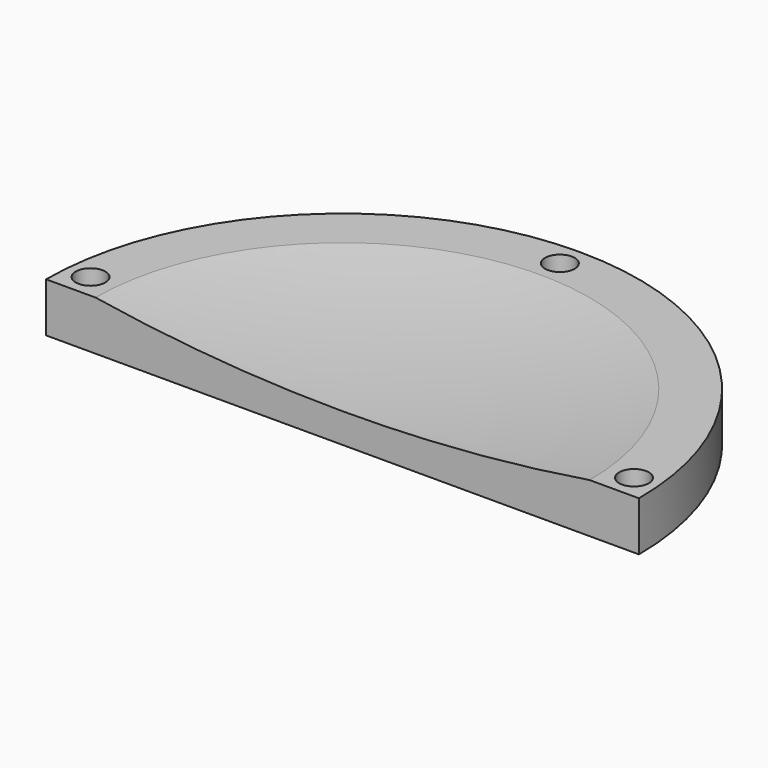
from build123d import *

# Parameters (mm, degrees)
F1_DEPTH = 10
F4_R     = 1.75
F5_DEPTH = 25
F6_R     = 3
F7_DEPTH = 5


with BuildPart() as f1:
    # F0 (on Top) → F1 (new body)
    with BuildSketch(Plane.XY):
        with BuildLine():
            Line((-60, 0), (60, 0))
            ThreePointArc((60, 0), (0, 60), (-60, 0))
        make_face()
    extrude(amount=F1_DEPTH)

    # F2 (on face) → F3 (revolve, cut)
    with BuildSketch(Plane.XZ):
        with BuildLine():
            ThreePointArc((-50, 10), (-25.079872, 7.001595), (0, 6))
            Line((0, 6), (0, 10))
            Line((0, 10), (-50, 10))
        make_face()
    revolve(axis=Axis((0, 0, 8), (0, 0, 1)), mode=Mode.SUBTRACT)

    # F4 (on face) → F5 (cut)
    with BuildSketch(Plane.XY.offset(10)):
        with Locations((0, 55)):
            Circle(F4_R)
        with Locations((-55, 5)):
            Circle(F4_R)
        with Locations((55, 5)):
            Circle(F4_R)
    extrude(amount=-F5_DEPTH, mode=Mode.SUBTRACT)

    # F6 (on face) → F7 (cut)
    with BuildSketch(Plane.XY.offset(10)):
        with Locations((55, 5)):
            Circle(F6_R)
        with Locations((0, 55)):
            Circle(F6_R)
        with Locations((-55, 5)):
            Circle(F6_R)
    extrude(amount=-F7_DEPTH, mode=Mode.SUBTRACT)


solid = f1.part
